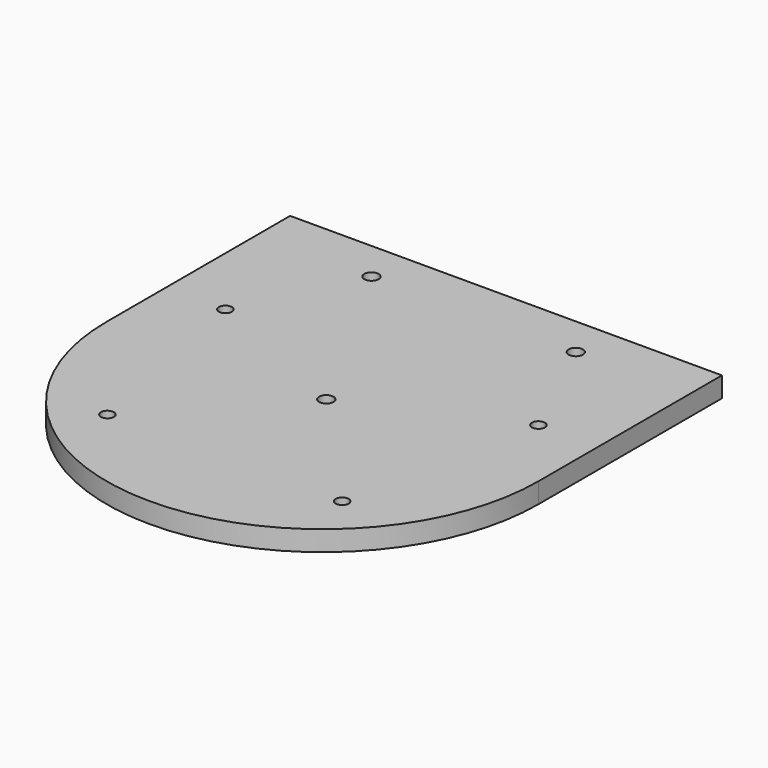
from build123d import *

# Parameters (mm, degrees)
F1_DEPTH = 9.525
F2_D     = 6.096
F3_D     = 6.7564


with BuildPart() as f1:
    # F0 (on Top) → F1 (new body)
    with BuildSketch(Plane.XY):
        with BuildLine():
            Line((-101.6, 107.95), (-101.6, 0))
            ThreePointArc((-101.6, 0), (0, -101.6), (101.6, 0))
            Line((101.6, 0), (101.6, 107.95))
            Line((101.6, 107.95), (-101.6, 107.95))
        make_face()
    extrude(amount=F1_DEPTH)

    # F2 (through all)
    with Locations(Plane(origin=(0, 0, 0), x_dir=(1, 0, 0), z_dir=(0, 0, -1))):
        with Locations((-73.66, -34.9713074978), (73.66, -34.9713074978), (-55.245, 57.4458691038), (55.245, 57.4458691038)):
            Hole(F2_D / 2)

    # F3 (through all)
    with Locations(Plane(origin=(0, 0, 0), x_dir=(1, 0, 0), z_dir=(0, 0, -1))):
        with Locations((-48.075, -88.9), (0, -2.2420264777), (48.075, -88.9)):
            Hole(F3_D / 2)


solid = f1.part
